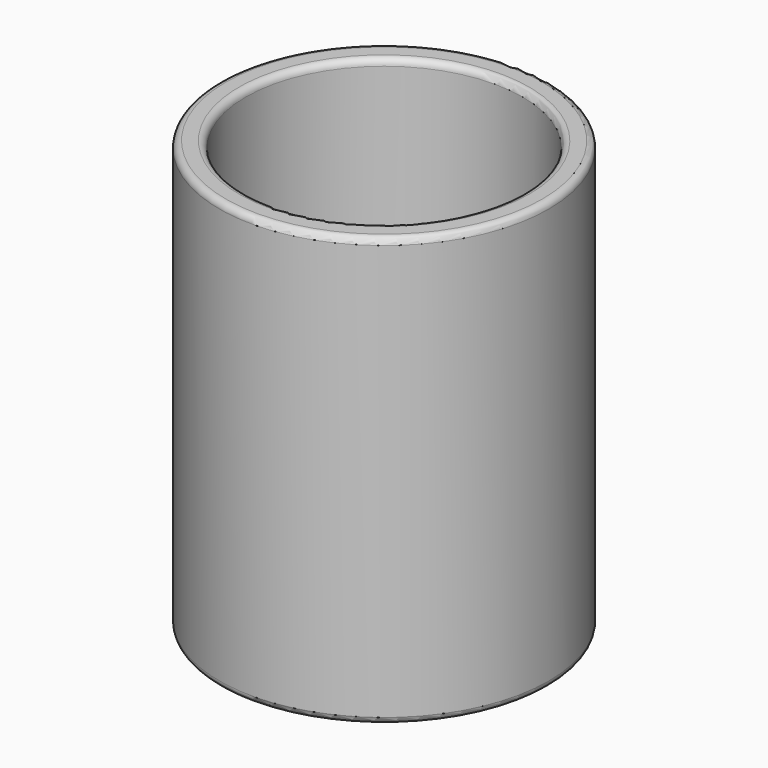
from build123d import *

# Parameters (mm, degrees)
SKETCH_R    = 5
SKETCH_R_2  = 4.2
PAD_DEPTH   = 13
FILLET_R    = 0.2
FILLET001_R = 0.2


with BuildPart() as part:
    # Sketch → Pad (new body)
    with BuildSketch(Plane.XY):
        Circle(SKETCH_R)
        Circle(SKETCH_R_2, mode=Mode.SUBTRACT)
    extrude(amount=PAD_DEPTH)

    # Fillet
    fillet_edges = [part.edges().sort_by_distance(p)[0] for p in [
        (-5, 0, 0),
        (-4.2, 0, 0),
    ]]
    fillet(fillet_edges, radius=FILLET_R)

    # Fillet001
    fillet001_edges = [part.edges().sort_by_distance(p)[0] for p in [
        (-5, 0, 13),
        (-4.2, 0, 13),
    ]]
    fillet(fillet001_edges, radius=FILLET001_R)


solid = part.part
